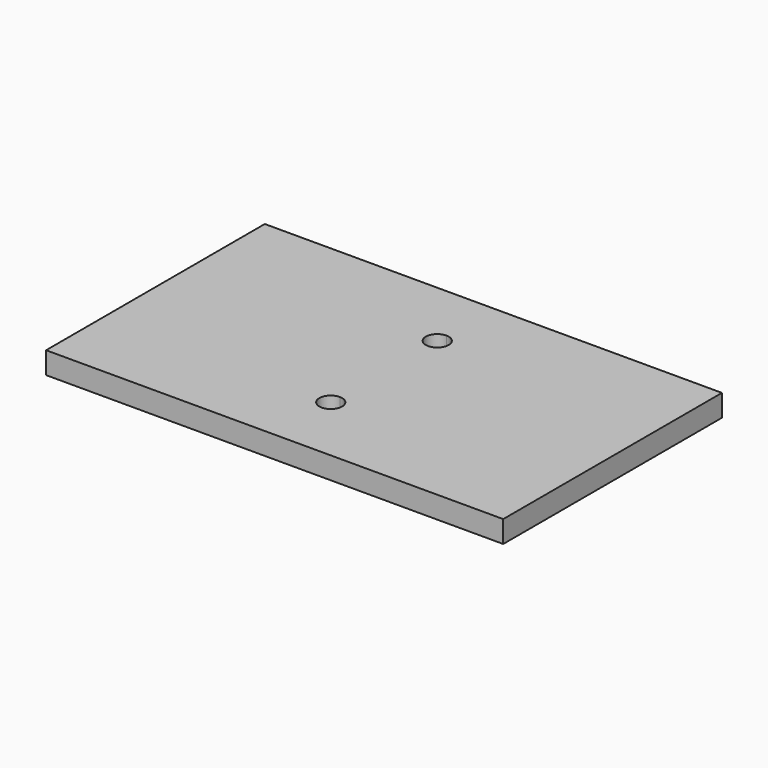
from build123d import *

# Parameters (mm, degrees)
F0_W     = 63.5
F0_H     = 37.973
F1_DEPTH = 3.048
F3_DEPTH = 3.048


with BuildPart() as f1:
    # F0 (on Top) → F1 (new body)
    with BuildSketch(Plane.XY):
        with Locations((31.75, -18.9865)):
            Rectangle(F0_W, F0_H)
    extrude(amount=F1_DEPTH)

    # F2 (on face) → F3 (cut, through all)
    with BuildSketch(Plane.XY.offset(3.048)):
        with BuildLine():
            ThreePointArc((31.75, -26.645393), (30.1625, -28.232893), (31.75, -29.820393))
            Line((31.75, -29.820393), (31.75, -26.645393))
        make_face()
        with BuildLine():
            ThreePointArc((31.75, -8.152607), (30.1625, -9.740107), (31.75, -11.327607))
            Line((31.75, -11.327607), (31.75, -8.152607))
        make_face()
        with BuildLine():
            Line((31.75, -8.152607), (31.75, -11.327607))
            ThreePointArc((31.75, -11.327607), (32.872532, -10.862639), (33.3375, -9.740107))
            ThreePointArc((33.3375, -9.740107), (32.872532, -8.617575), (31.75, -8.152607))
        make_face()
        with BuildLine():
            Line((31.75, -26.645393), (31.75, -29.820393))
            ThreePointArc((31.75, -29.820393), (32.872532, -29.355425), (33.3375, -28.232893))
            ThreePointArc((33.3375, -28.232893), (32.872532, -27.110361), (31.75, -26.645393))
        make_face()
    extrude(amount=-F3_DEPTH, mode=Mode.SUBTRACT)


solid = f1.part
